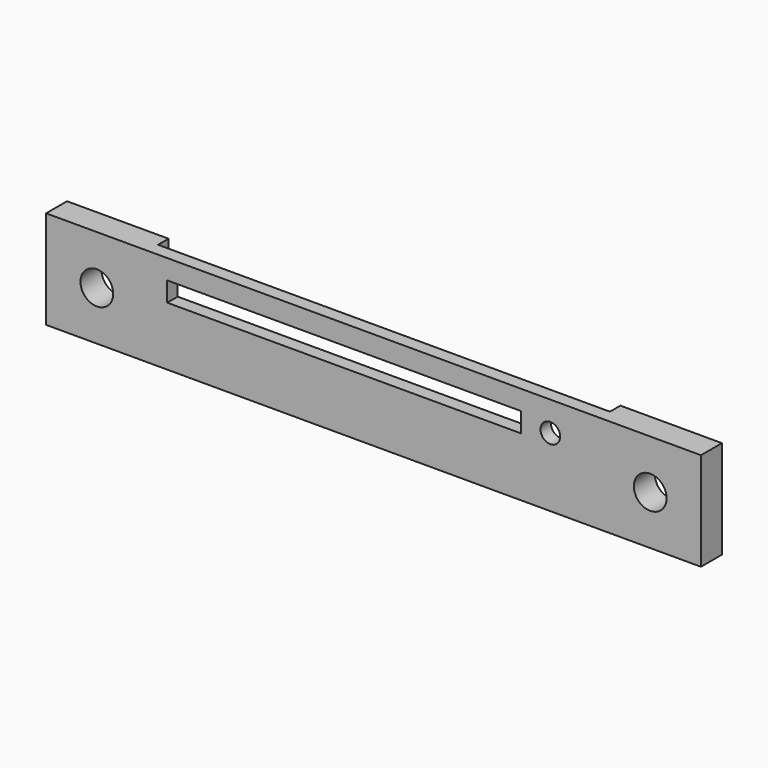
from build123d import *

# Parameters (mm, degrees)
F0_W      = 100
F0_H      = 15
F0_W_2    = 63
F0_H_2    = 3
F1_DEPTH  = 4
F2_W      = 69
F2_H      = 15
F3_DEPTH  = 2
F4_R      = 2.5
F5_DEPTH  = 25
F6_R      = 2.5
F7_DEPTH  = 25
F8_W      = 9
F8_H      = 3
F9_DEPTH  = 2
F10_R     = 1.5
F11_DEPTH = 25
F12_W     = 68.882376
F12_H     = 7.5
F13_DEPTH = 2


with BuildPart() as f1:
    # F0 (on Front) → F1 (new body)
    with BuildSketch(Plane.XZ):
        Rectangle(F0_W, F0_H)
        with Locations((0, -3)):
            Rectangle(F0_W_2, F0_H_2, mode=Mode.SUBTRACT)
        with Locations((0, 3)):
            Rectangle(F0_W_2, F0_H_2, mode=Mode.SUBTRACT)
    extrude(amount=F1_DEPTH)

    # F2 (on face) → F3 (cut)
    with BuildSketch(Plane(origin=(0, 0, 0), x_dir=(-1, 0, 0), z_dir=(0, 1, 0))):
        Rectangle(F2_W, F2_H)
    extrude(amount=-F3_DEPTH, mode=Mode.SUBTRACT)

    # F4 (on face) → F5 (cut)
    with BuildSketch(Plane(origin=(0, 0, 0), x_dir=(-1, 0, 0), z_dir=(0, 1, 0))):
        with Locations((-42.25, 0)):
            Circle(F4_R)
    extrude(amount=-F5_DEPTH, mode=Mode.SUBTRACT)

    # F6 (on face) → F7 (cut)
    with BuildSketch(Plane(origin=(0, 0, 0), x_dir=(-1, 0, 0), z_dir=(0, 1, 0))):
        with Locations((42.25, 0)):
            Circle(F6_R)
    extrude(amount=-F7_DEPTH, mode=Mode.SUBTRACT)

    # F8 (on face) → F9 (join)
    with BuildSketch(Plane.XZ.offset(4)):
        with Locations((27, 3)):
            Rectangle(F8_W, F8_H)
    extrude(amount=-F9_DEPTH)

    # F10 (on face) → F11 (cut)
    with BuildSketch(Plane.XZ.offset(4)):
        with Locations((27, 3)):
            Circle(F10_R)
    extrude(amount=-F11_DEPTH, mode=Mode.SUBTRACT)

    # F12 (on face) → F13 (join)
    with BuildSketch(Plane.XZ.offset(4)):
        with Locations((0.509296, -3.75)):
            Rectangle(F12_W, F12_H)
    extrude(amount=-F13_DEPTH)


solid = f1.part
